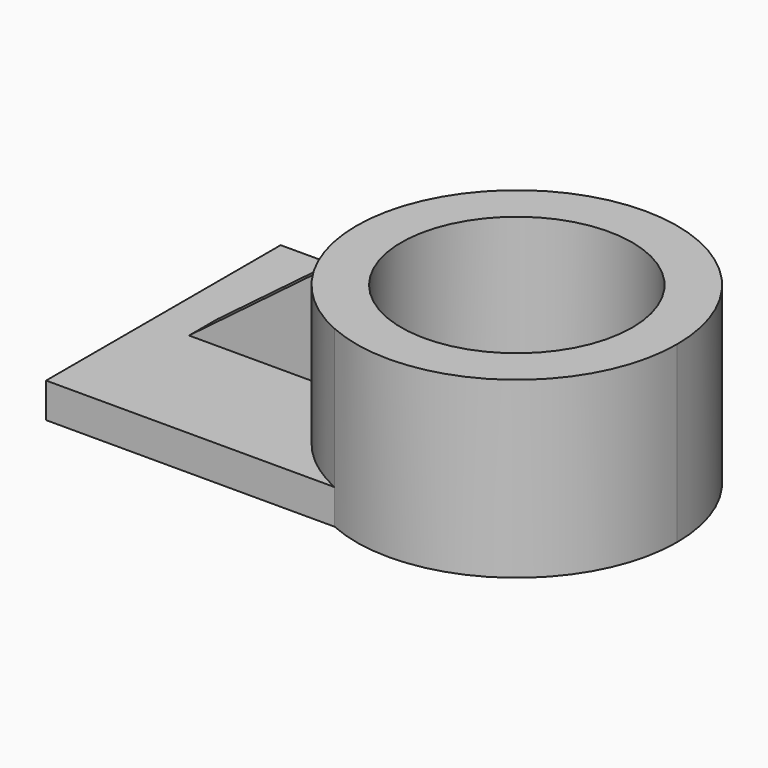
from build123d import *

# Parameters (mm, degrees)
F0_R     = 42.041892
F1_DEPTH = 63.5
F2_DEPTH = 12.7
F4_DEPTH = 6.35


with BuildPart() as f1:
    # F0 (on Top) → F1 (new body)
    with BuildSketch(Plane.XY):
        with BuildLine():
            ThreePointArc((52.548027, -53.411115), (108.062324, -48.95714), (134.611778, 0))
            ThreePointArc((134.611778, 0), (108.062324, 48.95714), (52.548027, 53.411115))
            ThreePointArc((52.548027, 53.411115), (17.785453, 0), (52.548027, -53.411115))
        make_face()
        with Locations((76.198615, 0)):
            Circle(F0_R, mode=Mode.SUBTRACT)
    extrude(amount=F1_DEPTH)

    # F0 (on Top) → F2 (join)
    with BuildSketch(Plane.XY):
        with BuildLine():
            ThreePointArc((52.548027, -53.411115), (17.785453, 0), (52.548027, 53.411115))
            Line((52.548027, 53.411115), (-52.548027, 53.411115))
            Line((-52.548027, 53.411115), (-52.548027, -53.411115))
            Line((-52.548027, -53.411115), (52.548027, -53.411115))
        make_face()
    extrude(amount=F2_DEPTH)

    # F3 (on Front) → F4 (join, symmetric)
    with BuildSketch(Plane.XZ):
        Polygon((17.915584, 12.179299), (17.915584, 55.029098), (-38.820458, 12.179299), align=None)
    extrude(amount=F4_DEPTH, both=True)


solid = f1.part
